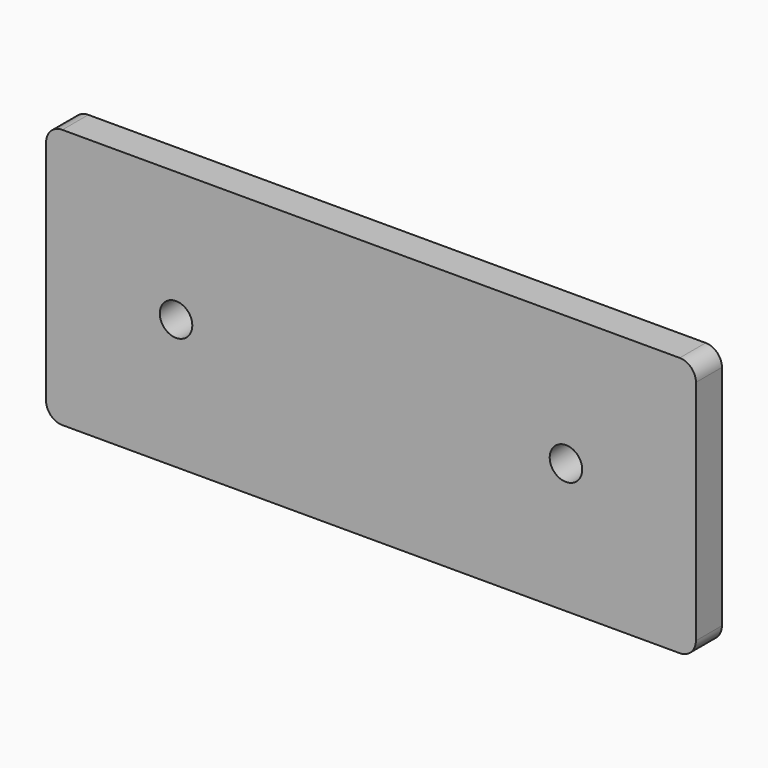
from build123d import *

# Parameters (mm, degrees)
F0_W     = 254
F0_H     = 101.6
F1_DEPTH = 12.7
F2_R     = 6.35
F3_R     = 6.35
F4_DEPTH = 12.701


with BuildPart() as f1:
    # F0 (on Front) → F1 (new body)
    with BuildSketch(Plane.XZ):
        with Locations((127, 50.8)):
            Rectangle(F0_W, F0_H)
    extrude(amount=F1_DEPTH)

    # F2
    f2_edges = [f1.edges().sort_by_distance(p)[0] for p in [
        (0, -6.35, 101.6),
        (0, -6.35, 0),
        (254, -6.35, 0),
        (254, -6.35, 101.6),
    ]]
    fillet(f2_edges, radius=F2_R)

    # F3 (on face) → F4 (cut, through all)
    with BuildSketch(Plane.XZ.offset(12.7)):
        with Locations((50.8, 50.8)):
            Circle(F3_R)
        with Locations((203.2, 50.8)):
            Circle(F3_R)
    extrude(amount=-F4_DEPTH, mode=Mode.SUBTRACT)


solid = f1.part
